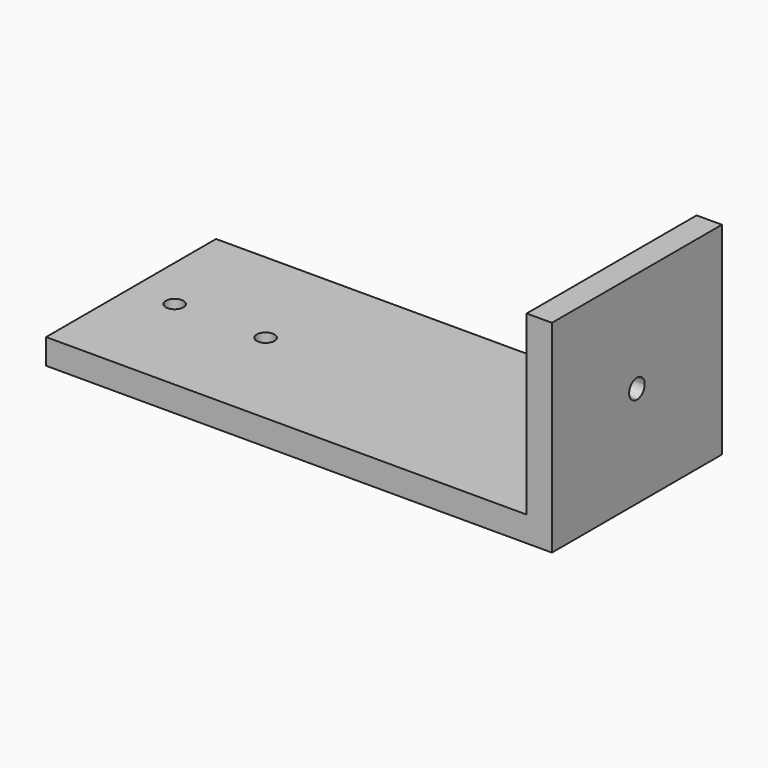
from build123d import *

# Parameters (mm, degrees)
F0_W     = 5
F0_H     = 42
F1_DEPTH = 40
F2_DEPTH = 5
F4_DEPTH = 5


with BuildPart() as f1:
    # F0 (on Top) → F1 (new body)
    with BuildSketch(Plane.XY):
        with Locations((50, 0)):
            Rectangle(F0_W, F0_H)
    extrude(amount=F1_DEPTH)

    # F0 (on Top) → F2 (join)
    with BuildSketch(Plane.XY):
        Polygon((47.5, 21), (-47.5, 21), (-47.5, 0), (-47.5, -21), (47.5, -21), align=None)
        with BuildLine():
            ThreePointArc((-37.15, 0), (-38.9, -1.75), (-40.65, 0))
            ThreePointArc((-40.65, 0), (-38.9, 1.75), (-37.15, 0))
        make_face(mode=Mode.SUBTRACT)
        with BuildLine():
            ThreePointArc((-19.15, 0), (-20.9, -1.75), (-22.65, 0))
            ThreePointArc((-22.65, 0), (-20.9, 1.75), (-19.15, 0))
        make_face(mode=Mode.SUBTRACT)
    extrude(amount=F2_DEPTH)

    # F3 (on face) → F4 (cut)
    with BuildSketch(Plane.YZ.offset(52.5)):
        with BuildLine():
            ThreePointArc((1.925, 20), (-1.361181, 21.361181), (0, 18.075))
            ThreePointArc((0, 18.075), (1.361181, 18.638819), (1.925, 20))
        make_face()
    extrude(amount=-F4_DEPTH, mode=Mode.SUBTRACT)


solid = f1.part
